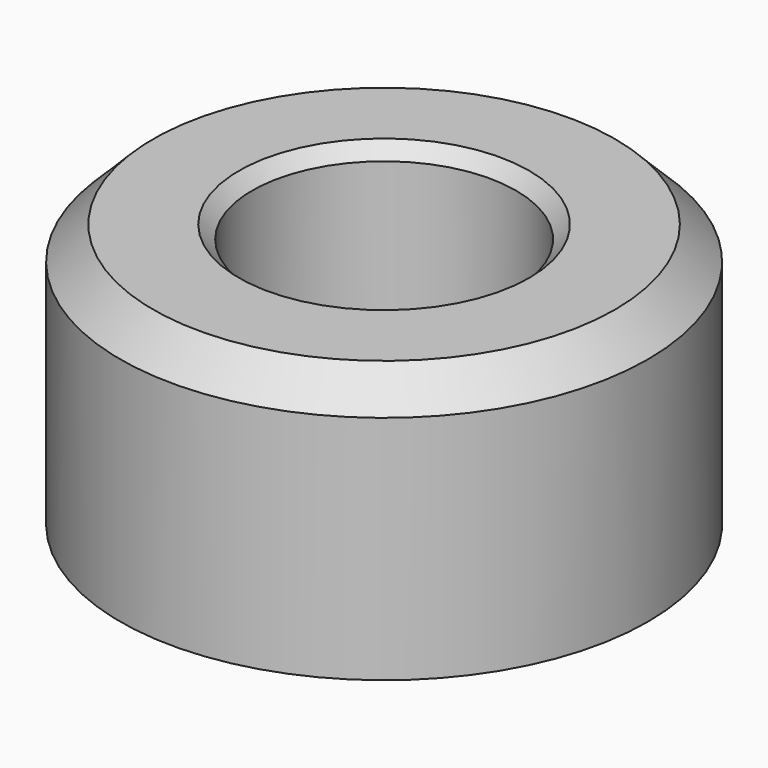
from build123d import *

# Parameters (mm, degrees)
F0_R     = 40
F0_R_2   = 20
F1_DEPTH = 40
F2_SIZE  = 5
F3_SIZE  = 2


with BuildPart() as f1:
    # F0 (on Top) → F1 (new body)
    with BuildSketch(Plane.XY):
        Circle(F0_R)
        Circle(F0_R_2, mode=Mode.SUBTRACT)
    extrude(amount=F1_DEPTH)

    # F2
    f2_edges = [f1.edges().sort_by_distance(p)[0] for p in [
        (-40, 0, 40),
    ]]
    chamfer(f2_edges, length=F2_SIZE)

    # F3
    f3_edges = [f1.edges().sort_by_distance(p)[0] for p in [
        (-20, 0, 40),
    ]]
    chamfer(f3_edges, length=F3_SIZE)


solid = f1.part
